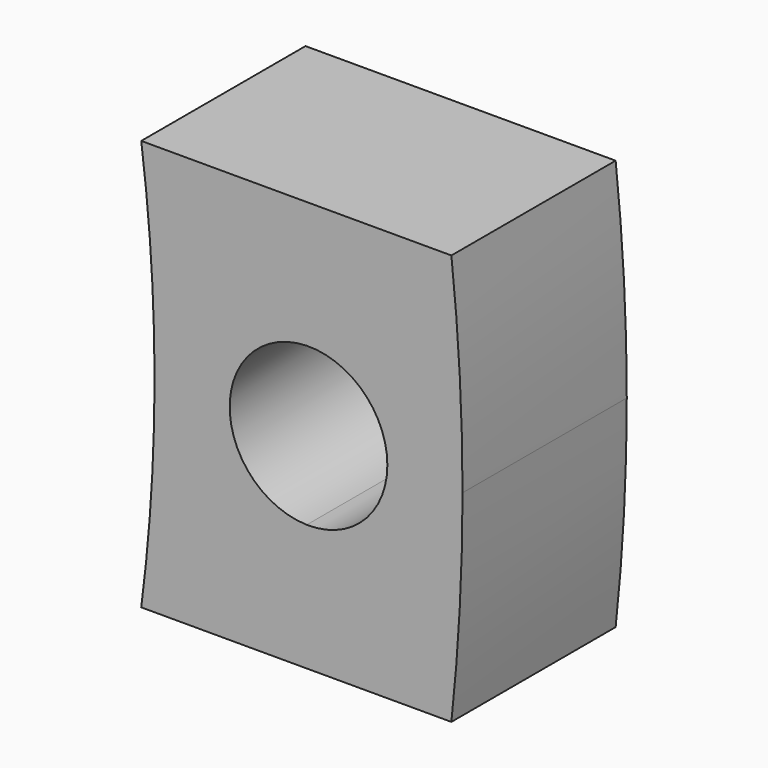
from build123d import *

# Parameters (mm, degrees)
F1_DEPTH = 3.175


with BuildPart() as f1:
    # F0 (on Front) → F1 (new body)
    with BuildSketch(Plane.XZ):
        with BuildLine():
            Line((54.4847436749, 27.8387732587), (52.0882042376, 27.8387732587))
            ThreePointArc((52.0882042376, 27.8387732587), (52.1859300417, 26.8621715497), (52.248080123, 25.8826621838))
            ThreePointArc((52.248080123, 25.8826621838), (53.1279319628, 25.5355601855), (53.4948196995, 24.6637732587))
            ThreePointArc((53.4948196995, 24.6637732587), (53.1279319628, 23.7919863318), (52.248080123, 23.4448843336))
            ThreePointArc((52.248080123, 23.4448843336), (52.1859300417, 22.4653749676), (52.0882042376, 21.4887732587))
            Line((52.0882042376, 21.4887732587), (54.4847436749, 21.4887732587))
            ThreePointArc((54.4847436749, 21.4887732587), (54.6138066219, 23.0739421066), (54.6568696995, 24.6637732587))
            ThreePointArc((54.6568696995, 24.6637732587), (54.6138066219, 26.2536044107), (54.4847436749, 27.8387732587))
        make_face()
        with BuildLine():
            ThreePointArc((49.6886712109, 27.8387732587), (49.8428912286, 26.2546014131), (49.8943696995, 24.6637732587))
            ThreePointArc((49.8943696995, 24.6637732587), (49.8428912286, 23.0729451042), (49.6886712109, 21.4887732587))
            Line((49.6886712109, 21.4887732587), (52.0882042376, 21.4887732587))
            ThreePointArc((52.0882042376, 21.4887732587), (52.1859300417, 22.4653749676), (52.248080123, 23.4448843336))
            ThreePointArc((52.248080123, 23.4448843336), (51.0564196995, 24.6637732587), (52.248080123, 25.8826621838))
            ThreePointArc((52.248080123, 25.8826621838), (52.1859300417, 26.8621715497), (52.0882042376, 27.8387732587))
            Line((52.0882042376, 27.8387732587), (49.6886712109, 27.8387732587))
        make_face()
    extrude(amount=F1_DEPTH)


solid = f1.part
